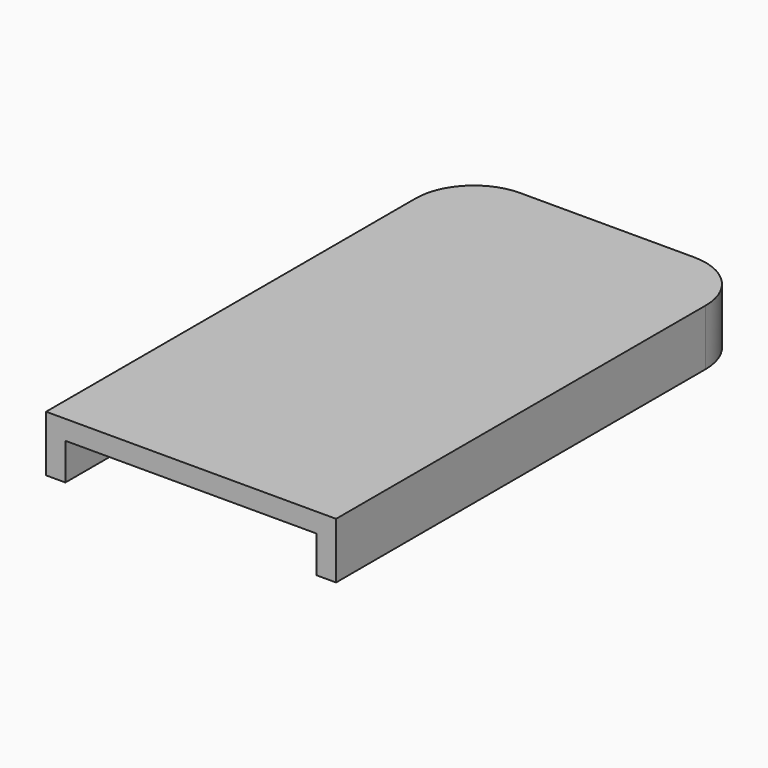
from build123d import *

# Parameters (mm, degrees)
PAD016_DEPTH    = 5.8
POCKET020_DEPTH = 3.8
SKETCH068_R     = 4
PAD017_DEPTH    = 6.8
SKETCH069_R     = 1.2
POCKET021_DEPTH = 5
FILLET002_R     = 2


with BuildPart() as part:
    # Sketch066 (on DatumPlane) → Pad016 (new body)
    with BuildSketch(Plane.XY.offset(14)):
        with BuildLine():
            Line((61, 137.4), (79, 137.4))
            ThreePointArc((85, 131.4), (83.242641, 135.642641), (79, 137.4))
            Line((85, 131.4), (85, 83.6))
            Line((85, 83.6), (55, 83.6))
            Line((55, 83.6), (55, 131.4))
            ThreePointArc((61, 137.4), (56.757359, 135.642641), (55, 131.4))
        make_face()
    extrude(amount=-PAD016_DEPTH)

    # Sketch067 (on Face8 of Pad016) → Pocket020 (cut)
    with BuildSketch(Plane(origin=(0, 0, 8.2), x_dir=(1, 0, 0), z_dir=(0, 0, -1))):
        with BuildLine():
            Line((57, -83.6), (83, -83.6))
            Line((83, -83.6), (83, -131.4))
            ThreePointArc((79, -135.4), (81.828427, -134.228427), (83, -131.4))
            Line((79, -135.4), (61, -135.4))
            ThreePointArc((57, -131.4), (58.171573, -134.228427), (61, -135.4))
            Line((57, -131.4), (57, -83.6))
        make_face()
    extrude(amount=-POCKET020_DEPTH, mode=Mode.SUBTRACT)

    # Sketch068 (on Face14 of Pocket020) → Pad017 (join)
    with BuildSketch(Plane(origin=(0, 0, 12), x_dir=(1, 0, 0), z_dir=(0, 0, -1))):
        with Locations((70, -98.4)):
            Circle(SKETCH068_R)
    extrude(amount=PAD017_DEPTH)

    # Sketch069 (on Face16 of Pad017) → Pocket021 (cut)
    with BuildSketch(Plane(origin=(0, 0, 5.2), x_dir=(1, 0, 0), z_dir=(0, 0, -1))):
        with Locations((70, -98.4)):
            Circle(SKETCH069_R)
    extrude(amount=-POCKET021_DEPTH, mode=Mode.SUBTRACT)

    # Fillet002
    fillet002_edges = [part.edges().sort_by_distance(p)[0] for p in [
        (66, 98.4, 12),
    ]]
    fillet(fillet002_edges, radius=FILLET002_R)


solid = part.part
